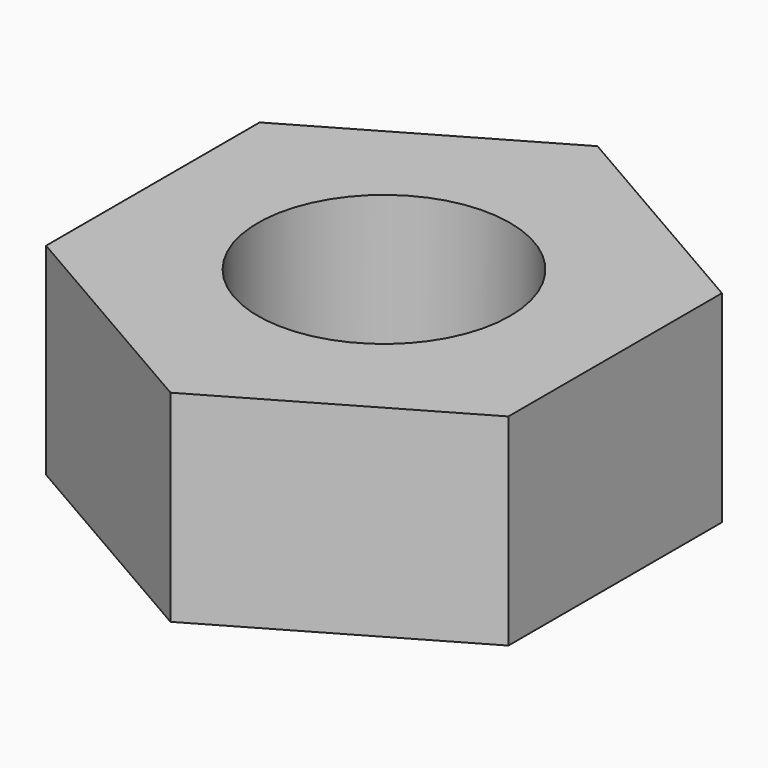
from build123d import *

# Parameters (mm, degrees)
SKETCH_R  = 1.5
PAD_DEPTH = 2.4


with BuildPart() as part:
    # Sketch → Pad (new body)
    with BuildSketch(Plane.XY):
        Polygon((0, 3.175426), (-2.75, 1.587713), (-2.75, -1.587713), (0, -3.175426), (2.75, -1.587713), (2.75, 1.587713), align=None)
        Circle(SKETCH_R, mode=Mode.SUBTRACT)
    extrude(amount=PAD_DEPTH)


solid = part.part
